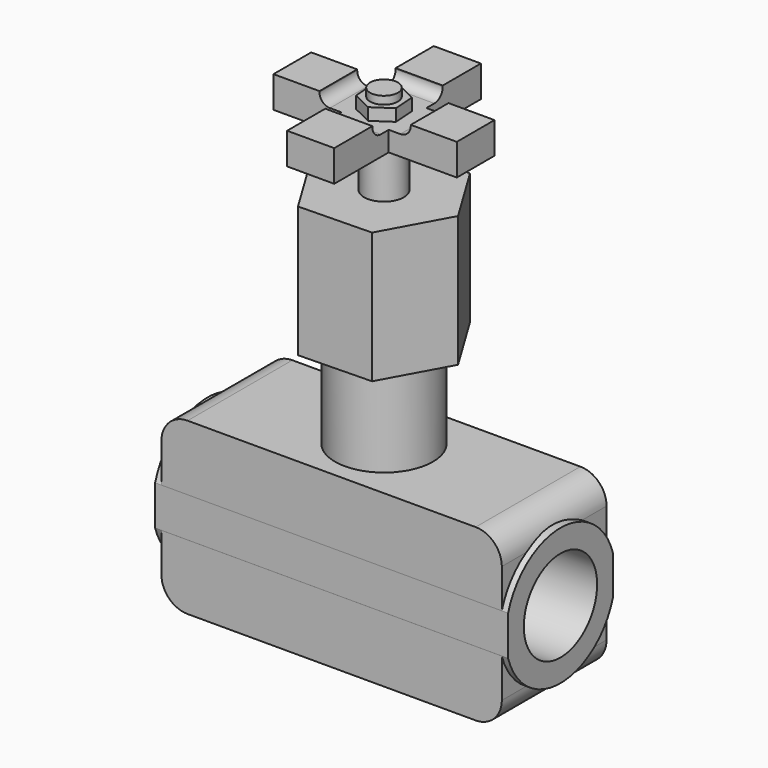
from build123d import *

# Parameters (mm, degrees)
F0_W      = 65
F0_H      = 32.5
F1_DEPTH  = 12.5
F2_R      = 9.3523138159
F3_DEPTH  = 33.9
F4_R      = 5
F6_DEPTH  = 25
F7_R      = 3.8004519978
F8_DEPTH  = 9.6
F10_W     = 35
F10_H     = 9
F10_R     = 3.8004519978
F11_DEPTH = 6
F9_W      = 9
F9_H      = 35
F9_R      = 3.8004519978
F12_DEPTH = 6
F13_R     = 3.8004519978
F14_DEPTH = 15.4
F16_DEPTH = 2.2
F17_R     = 2
F19_DEPTH = 2.3
F20_R     = 2.6528725425
F21_DEPTH = 1.5
F23_DEPTH = 33.7
F25_D     = 17.5
F25_2_D   = 17.5


with BuildPart() as f1:
    # F0 (on Front) → F1 (new body, symmetric)
    with BuildSketch(Plane.XZ):
        Rectangle(F0_W, F0_H)
    extrude(amount=F1_DEPTH, both=True)

    # F2 (on Top) → F3 (join)
    with BuildSketch(Plane.XY):
        Circle(F2_R)
    extrude(amount=F3_DEPTH)

    # F4
    f4_edges = [f1.edges().sort_by_distance(p)[0] for p in [
        (-32.5, 0, 16.25),
        (-32.5, 0, -16.25),
        (32.5, 0, 16.25),
        (32.5, 0, -16.25),
    ]]
    fillet(f4_edges, radius=F4_R)

    # F5 (on face) → F6 (join)
    with BuildSketch(Plane.XY.offset(33.9)):
        Polygon((-7.2158822013, 11.872535), (-13.8898580181, -0.312869797), (-6.6739758167, -12.1854047971), (7.2158822013, -11.872535), (13.8898580181, 0.312869797), (6.6739758167, 12.1854047971), align=None)
    extrude(amount=F6_DEPTH)

    # F7 (on face) → F8 (join)
    with BuildSketch(Plane.XY.offset(58.9)):
        Circle(F7_R)
    extrude(amount=F8_DEPTH)



with BuildPart() as f11:
    # F10 (on face) → F11 (new body)
    with BuildSketch(Plane.XY.offset(68.5)):
        Rectangle(F10_W, F10_H)
        Circle(F10_R, mode=Mode.SUBTRACT)
    extrude(amount=F11_DEPTH)


with BuildPart() as f1_1:
    add(f1.part)

    add(f11.part)  # F12 merges F11
    # F9 (on face) → F12 (join)
    with BuildSketch(Plane.XY.offset(68.5)):
        Rectangle(F9_W, F9_H)
        Circle(F9_R, mode=Mode.SUBTRACT)
    extrude(amount=F12_DEPTH)

    # F13 (on face) → F14 (join)
    with BuildSketch(Plane.XY.offset(74.5)):
        Circle(F13_R)
    extrude(amount=-F14_DEPTH)

    # F15 (on face) → F16 (cut)
    with BuildSketch(Plane.XY.offset(74.5)):
        Polygon((-4.5, -8.3923498169), (4.5, -8.3923498169), (4.5, -4.5), (8.7124751881, -4.5), (8.7124751881, 4.5), (4.5, 4.5), (4.5, 8.3923498169), (-4.5, 8.3923498169), (-4.5, 4.5), (-8.7124751881, 4.5), (-8.7124751881, -4.5), (-4.5, -4.5), align=None)
    extrude(amount=-F16_DEPTH, mode=Mode.SUBTRACT)

    # F17
    f17_edges = [f1_1.edges().sort_by_distance(p)[0] for p in [
        (8.712475, 0, 72.3),
        (0, 8.39235, 72.3),
        (-8.712475, 0, 72.3),
        (0, -8.39235, 72.3),
    ]]
    fillet(f17_edges, radius=F17_R)

    # F18 (on face) → F19 (join)
    with BuildSketch(Plane.XY.offset(72.3)):
        Polygon((-3.4616619036, -2.3346488586), (0.2910342686, -4.1652115771), (3.7526961723, -1.8305627186), (3.4616619036, 2.3346488586), (-0.2910342686, 4.1652115771), (-3.7526961723, 1.8305627186), align=None)
    extrude(amount=F19_DEPTH)

    # F20 (on face) → F21 (join)
    with BuildSketch(Plane.XY.offset(74.6)):
        Circle(F20_R)
    extrude(amount=F21_DEPTH)

    # F25 (through all)
    with Locations(Plane.YZ.offset(33.7)):
        with Locations((0, 0)):
            Hole(F25_D / 2)


with BuildPart() as f23:
    # F22 (on Right) → F23 (new body, symmetric)
    with BuildSketch(Plane.YZ):
        with BuildLine():
            Line((-12.5028542199, 3.7958711109), (-12.5028542199, -3.7958711109))
            ThreePointArc((-12.5028542199, -3.7958711109), (0.0071350706, -13.0663671395), (12.5069923382, -3.782214138))
            Line((12.5069923382, -3.782214138), (12.5069923382, 3.782214138))
            ThreePointArc((12.5069923382, 3.782214138), (0.0071350706, 13.0663671395), (-12.5028542199, 3.7958711109))
        make_face()
    extrude(amount=F23_DEPTH, both=True)

    # F25#2 (through all)
    with Locations(Plane.YZ.offset(33.7)):
        with Locations((0, 0)):
            Hole(F25_2_D / 2)


solid = Compound([f1_1.part, f23.part])
